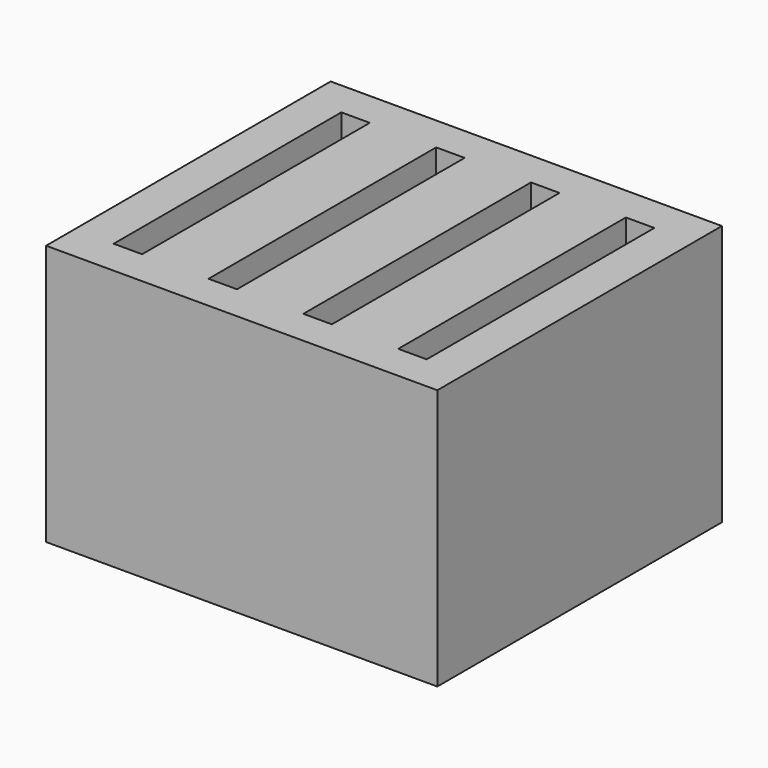
from build123d import *

# Parameters (mm, degrees)
BOX001_W     = 2.4
BOX001_H     = 24
BOX001_DEPTH = 22
BOX002_W     = 2.4
BOX002_H     = 24
BOX002_DEPTH = 22
BOX003_W     = 2.4
BOX003_H     = 24
BOX003_DEPTH = 22
BOX_W        = 2.4
BOX_H        = 24
BOX_DEPTH    = 22
BOX004_W     = 33
BOX004_H     = 30
BOX004_DEPTH = 22


with BuildPart() as cub001:
    # Box001 → Box001 (new body)
    with BuildSketch(Plane(origin=(11.3, 3, 3), x_dir=(1, 0, 0), z_dir=(0, 0, 1))):
        with Locations((1.2, 12)):
            Rectangle(BOX001_W, BOX001_H)
    extrude(amount=BOX001_DEPTH)


with BuildPart() as cub002:
    # Box002 → Box002 (new body)
    with BuildSketch(Plane(origin=(19.3, 3, 3), x_dir=(1, 0, 0), z_dir=(0, 0, 1))):
        with Locations((1.2, 12)):
            Rectangle(BOX002_W, BOX002_H)
    extrude(amount=BOX002_DEPTH)


with BuildPart() as cub003:
    # Box003 → Box003 (new body)
    with BuildSketch(Plane(origin=(27.3, 3, 3), x_dir=(1, 0, 0), z_dir=(0, 0, 1))):
        with Locations((1.2, 12)):
            Rectangle(BOX003_W, BOX003_H)
    extrude(amount=BOX003_DEPTH)


with BuildPart() as obj1:
    # Box → Box (new body)
    with BuildSketch(Plane(origin=(3.3, 3, 3), x_dir=(1, 0, 0), z_dir=(0, 0, 1))):
        with Locations((1.2, 12)):
            Rectangle(BOX_W, BOX_H)
    extrude(amount=BOX_DEPTH)

    # Fusion: union Cub001, Cub002, Cub003
    add(cub001.part)
    add(cub002.part)
    add(cub003.part)


with BuildPart() as cut:
    # Box004 → Box004 (new body)
    with BuildSketch(Plane.XY):
        with Locations((16.5, 15)):
            Rectangle(BOX004_W, BOX004_H)
    extrude(amount=BOX004_DEPTH)

    # Cut: cut obj1
    add(obj1.part, mode=Mode.SUBTRACT)


solid = cut.part
